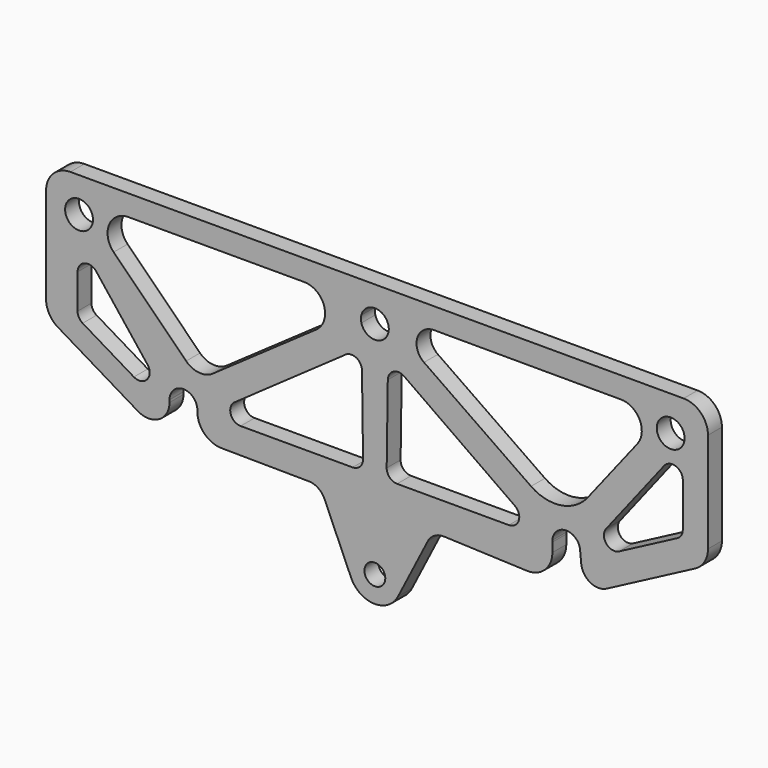
from build123d import *

# Parameters (mm, degrees)
F0_R     = 4
F1_DEPTH = 5


with BuildPart() as f1:
    # F0 (on Front) → F1 (new body)
    with BuildSketch(Plane.XZ):
        with BuildLine():
            ThreePointArc((-162.93692, 35.030597), (-158.898512, 38.999814), (-154.937307, 34.953548))
            Line((-154.937307, 34.953548), (-154.940273, 34.69815))
            ThreePointArc((-154.940273, 34.69815), (-152.941566, 29.718719), (-148.004667, 27.617152))
            Line((-148.004667, 27.617152), (-122.802143, 27.387))
            ThreePointArc((-122.802143, 27.387), (-120.179499, 26.522977), (-118.415412, 24.398643))
            Line((-118.415412, 24.398643), (-110.784866, 6.997219))
            ThreePointArc((-110.784866, 6.997219), (-104.156475, 2.525958), (-97.277175, 6.600632))
            Line((-97.277175, 6.600632), (-88.737962, 23.330208))
            ThreePointArc((-88.737962, 23.330208), (-86.812994, 25.370653), (-84.092183, 26.05337))
            Line((-84.092183, 26.05337), (-60.199575, 25.133445))
            ThreePointArc((-60.199575, 25.133445), (-55.076662, 27.084195), (-52.930257, 32.128262))
            Line((-52.930257, 32.128262), (-52.930257, 34.767204))
            ThreePointArc((-52.930257, 34.767204), (-52.937037, 35), (-52.930257, 35.232796))
            ThreePointArc((-52.930257, 35.232796), (-48.82609, 38.998461), (-44.937052, 35.011005))
            Line((-44.937052, 35.011005), (-44.650559, 32.005813))
            ThreePointArc((-44.650559, 32.005813), (-42.052043, 28.082513), (-37.346324, 28.054719))
            Line((-37.346324, 28.054719), (-11.957943, 41.402887))
            ThreePointArc((-11.957943, 41.402887), (-9.223694, 43.979528), (-8.215466, 47.598736))
            Line((-8.215466, 47.598736), (-8.215466, 76.367726))
            ThreePointArc((-8.215466, 76.367726), (-10.265719, 81.317474), (-15.215466, 83.367726))
            Line((-15.215466, 83.367726), (-191.405466, 83.367726))
            ThreePointArc((-191.405466, 83.367726), (-196.355214, 81.317474), (-198.405466, 76.367726))
            Line((-198.405466, 76.367726), (-198.405466, 48.917622))
            ThreePointArc((-198.405466, 48.917622), (-197.494704, 45.464917), (-194.999416, 42.910666))
            Line((-194.999416, 42.910666), (-172.017448, 29.160603))
            ThreePointArc((-172.017448, 29.160603), (-165.977458, 29.090075), (-162.93692, 34.309423))
            Line((-162.93692, 34.309423), (-162.93692, 34.969403))
            ThreePointArc((-162.93692, 34.969403), (-162.937037, 35), (-162.93692, 35.030597))
        make_face()
        with BuildLine():
            ThreePointArc((-100.937777, 9.933366), (-106.936852, 10.033319), (-100.937037, 10))
            ThreePointArc((-100.937037, 10), (-100.937051, 9.990837), (-100.937093, 9.981674))
            Line((-100.937093, 9.981674), (-100.937777, 9.933366))
        make_face(mode=Mode.SUBTRACT)
        with BuildLine():
            ThreePointArc((-189.357673, 58.750004), (-187.33795, 61.585327), (-183.998301, 60.602938))
            Line((-183.998301, 60.602938), (-169.280903, 41.863033))
            ThreePointArc((-169.280903, 41.863033), (-169.389036, 38.027191), (-173.180539, 37.435689))
            Line((-173.180539, 37.435689), (-187.897937, 46.241077))
            ThreePointArc((-187.897937, 46.241077), (-188.967347, 47.335756), (-189.357673, 48.815487))
            Line((-189.357673, 48.815487), (-189.357673, 58.750004))
        make_face(mode=Mode.SUBTRACT)
        with BuildLine():
            Line((-144.227608, 40.453975), (-112.364396, 62.860901))
            ThreePointArc((-112.364396, 62.860901), (-109.274696, 63.078906), (-107.638996, 60.448647))
            Line((-107.638996, 60.448647), (-107.327348, 38.041722))
            ThreePointArc((-107.327348, 38.041722), (-108.191037, 35.893482), (-110.327057, 35))
            Line((-110.327057, 35), (-142.501918, 35))
            ThreePointArc((-142.501918, 35), (-145.362156, 37.094993), (-144.227608, 40.453975))
        make_face(mode=Mode.SUBTRACT)
        with BuildLine():
            Line((-158.161986, 46.343195), (-178.982052, 67.12042))
            ThreePointArc((-178.982052, 67.12042), (-180.288218, 73.660732), (-174.743657, 77.367428))
            Line((-174.743657, 77.367428), (-124.237035, 77.366367))
            ThreePointArc((-124.237035, 77.366367), (-118.514624, 73.169857), (-120.796878, 66.450631))
            Line((-120.796878, 66.450631), (-150.483435, 45.674467))
            ThreePointArc((-150.483435, 45.674467), (-154.444289, 44.612828), (-158.161986, 46.343195))
        make_face(mode=Mode.SUBTRACT)
        with Locations((-188.937037, 73.367726)):
            Circle(F0_R, mode=Mode.SUBTRACT)
        with BuildLine():
            ThreePointArc((-100.027452, 74.213391), (-99.959705, 73.792969), (-99.937037, 73.367726))
            ThreePointArc((-99.937037, 73.367726), (-99.966125, 72.886206), (-100.052968, 72.411689))
            ThreePointArc((-100.052968, 72.411689), (-103.9034, 69.367868), (-107.804478, 72.346502))
            ThreePointArc((-107.804478, 72.346502), (-107.93665, 73.312097), (-107.831384, 74.280995))
            ThreePointArc((-107.831384, 74.280995), (-103.902387, 77.367576), (-100.027452, 74.213391))
        make_face(mode=Mode.SUBTRACT)
        with BuildLine():
            ThreePointArc((-100.222687, 60.427463), (-98.585652, 63.057648), (-95.495448, 62.837655))
            Line((-95.495448, 62.837655), (-63.714392, 40.452673))
            ThreePointArc((-63.714392, 40.452673), (-62.582035, 37.093915), (-65.441931, 35))
            Line((-65.441931, 35), (-97.540001, 35))
            ThreePointArc((-97.540001, 35), (-99.676288, 35.893753), (-100.5397, 38.042481))
            Line((-100.5397, 38.042481), (-100.222687, 60.427463))
        make_face(mode=Mode.SUBTRACT)
        with BuildLine():
            Line((-59.062029, 46.891406), (-89.817697, 68.225334))
            ThreePointArc((-89.817697, 68.225334), (-91.738656, 73.830314), (-86.960347, 77.333691))
            Line((-86.960347, 77.333691), (-33.232048, 77.252552))
            ThreePointArc((-33.232048, 77.252552), (-27.844669, 73.875237), (-28.517809, 67.552501))
            Line((-28.517809, 67.552501), (-42.775908, 49.351358))
            ThreePointArc((-42.775908, 49.351358), (-50.430287, 44.886066), (-59.062029, 46.891406))
        make_face(mode=Mode.SUBTRACT)
        with BuildLine():
            Line((-37.495455, 43.158397), (-20.822425, 64.520861))
            ThreePointArc((-20.822425, 64.520861), (-17.481474, 65.511855), (-15.457471, 62.675056))
            Line((-15.457471, 62.675056), (-15.457471, 50.078587))
            ThreePointArc((-15.457471, 50.078587), (-15.889569, 48.527498), (-17.06139, 47.423223))
            Line((-17.06139, 47.423223), (-33.73442, 38.657229))
            ThreePointArc((-33.73442, 38.657229), (-37.432632, 39.389004), (-37.495455, 43.158397))
        make_face(mode=Mode.SUBTRACT)
        with Locations((-18.937037, 73.367726)):
            Circle(F0_R, mode=Mode.SUBTRACT)
    extrude(amount=F1_DEPTH)


solid = f1.part
